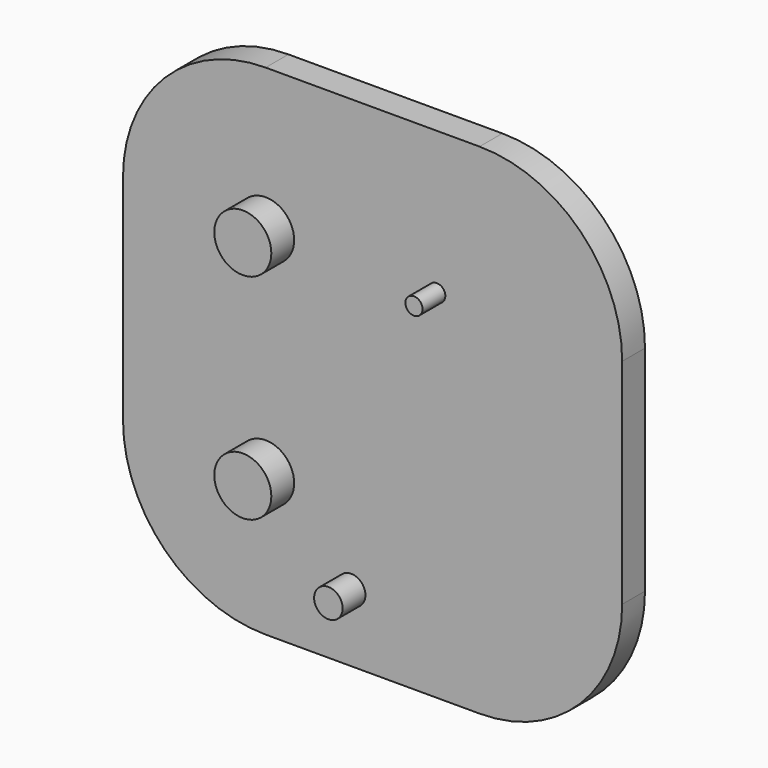
from build123d import *

# Parameters (mm, degrees)
F1_DEPTH = 5
F2_R     = 5
F2_R_2   = 2.5
F3_DEPTH = 5
F4_R     = 1.5
F5_DEPTH = 5


with BuildPart() as f1:
    # F0 (on Front) → F1 (new body)
    with BuildSketch(Plane.XZ):
        with BuildLine():
            ThreePointArc((0, 43.75), (-17.67767, 36.42767), (-25, 18.75))
            Line((-25, 18.75), (-25, -18.75))
            ThreePointArc((-25, -18.75), (-17.67767, -36.42767), (0, -43.75))
            Line((0, -43.75), (37.5, -43.75))
            ThreePointArc((37.5, -43.75), (55.17767, -36.42767), (62.5, -18.75))
            Line((62.5, -18.75), (62.5, 18.75))
            ThreePointArc((62.5, 18.75), (55.17767, 36.42767), (37.5, 43.75))
            Line((37.5, 43.75), (0, 43.75))
        make_face()
    extrude(amount=F1_DEPTH)

    # F2 (on face) → F3 (join)
    with BuildSketch(Plane.XZ.offset(5)):
        with Locations((0, 18.75)):
            Circle(F2_R)
        with Locations((0, -18.75)):
            Circle(F2_R)
        with Locations((15, -31.978757)):
            Circle(F2_R_2)
    extrude(amount=F3_DEPTH)

    # F4 (on face) → F5 (join)
    with BuildSketch(Plane.XZ.offset(5)):
        with Locations((30, 18.75)):
            Circle(F4_R)
    extrude(amount=F5_DEPTH)


solid = f1.part
